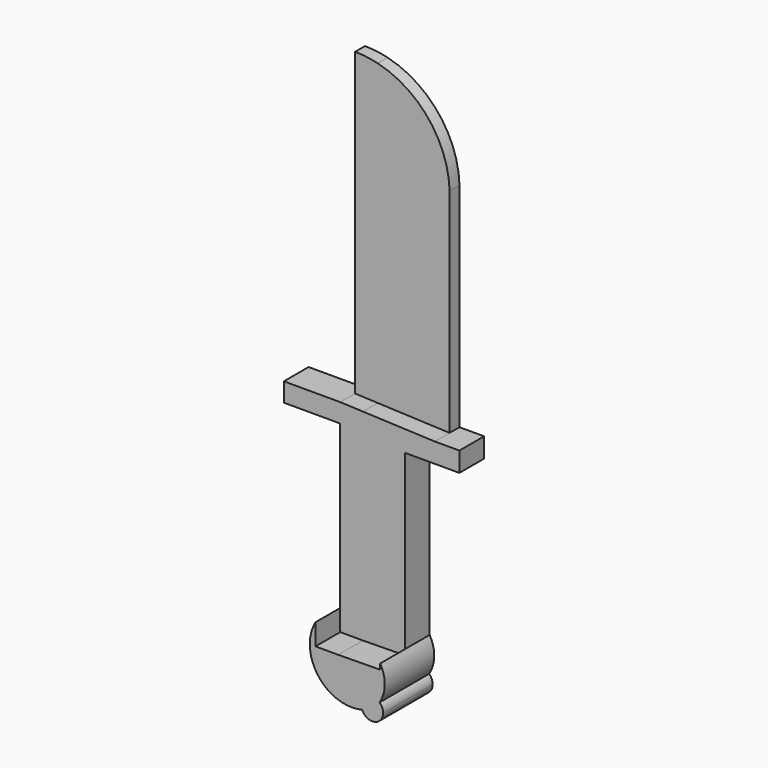
from build123d import *

# Parameters (mm, degrees)
F1_DEPTH = 5.08
F2_DEPTH = 12.7
F3_DEPTH = 25.4


with BuildPart() as f1:
    # F0 (on Front) → F1 (new body)
    with BuildSketch(Plane.XZ):
        with BuildLine():
            Line((0, -47.187425), (0, 75.595615))
            ThreePointArc((0, 75.595615), (-4.619314, 76.443648), (-9.307228, 76.727711))
            Line((-9.307228, 76.727711), (-9.307228, 37.903182))
            Line((-9.307228, 37.903182), (-9.307228, -46.803496))
            Line((-9.307228, -46.803496), (0, -47.187425))
        make_face()
        with BuildLine():
            ThreePointArc((29.501495, 39.010878), (20.91523, 62.274211), (0, 75.595615))
            Line((0, 75.595615), (0, -47.187425))
            Line((0, -47.187425), (29.501495, -48.404383))
            Line((29.501495, -48.404383), (29.501495, -27.950756))
            Line((29.501495, -27.950756), (29.501495, 0))
            Line((29.501495, 0), (29.501495, 39.010878))
        make_face()
    extrude(amount=F1_DEPTH)

    # F0 (on Front) → F2 (join)
    with BuildSketch(Plane.XZ):
        Polygon((29.501495, -48.404383), (0, -47.187425), (-9.307228, -46.803496), (-32.457575, -46.803496), (-32.457575, -54.546013), (-9.307228, -54.546013), (-9.307228, -121.184757), (-9.307228, -129.937008), (0, -129.937008), (17.238326, -129.725629), (17.238326, -127.477206), (17.238326, -79.020567), (17.238326, -56.486391), (29.501495, -56.486391), (39.612059, -56.486391), (39.612059, -48.404383), align=None)
    extrude(amount=F2_DEPTH)

    # F0 (on Front) → F3 (join)
    with BuildSketch(Plane.XZ):
        with BuildLine():
            Line((-9.307228, -129.937008), (-9.307228, -121.184757))
            ThreePointArc((-9.307228, -121.184757), (-8.169823, -140.263142), (9.859656, -146.604776))
            ThreePointArc((9.859656, -146.604776), (11.990386, -145.914729), (14.013868, -144.954681))
            ThreePointArc((14.013868, -144.954681), (15.649123, -143.419867), (17.007979, -141.635709))
            ThreePointArc((17.007979, -141.635709), (19.126457, -134.58905), (17.238326, -127.477206))
            Line((17.238326, -127.477206), (17.238326, -129.725629))
            Line((17.238326, -129.725629), (0, -129.937008))
            Line((0, -129.937008), (-9.307228, -129.937008))
        make_face()
        with BuildLine():
            ThreePointArc((14.013868, -144.954681), (11.990386, -145.914729), (9.859656, -146.604776))
            ThreePointArc((9.859656, -146.604776), (14.853881, -149.344973), (18.483799, -144.954681))
            ThreePointArc((18.483799, -144.954681), (18.098213, -143.13853), (17.007979, -141.635709))
            ThreePointArc((17.007979, -141.635709), (15.649123, -143.419867), (14.013868, -144.954681))
        make_face()
    extrude(amount=F3_DEPTH)


solid = f1.part
